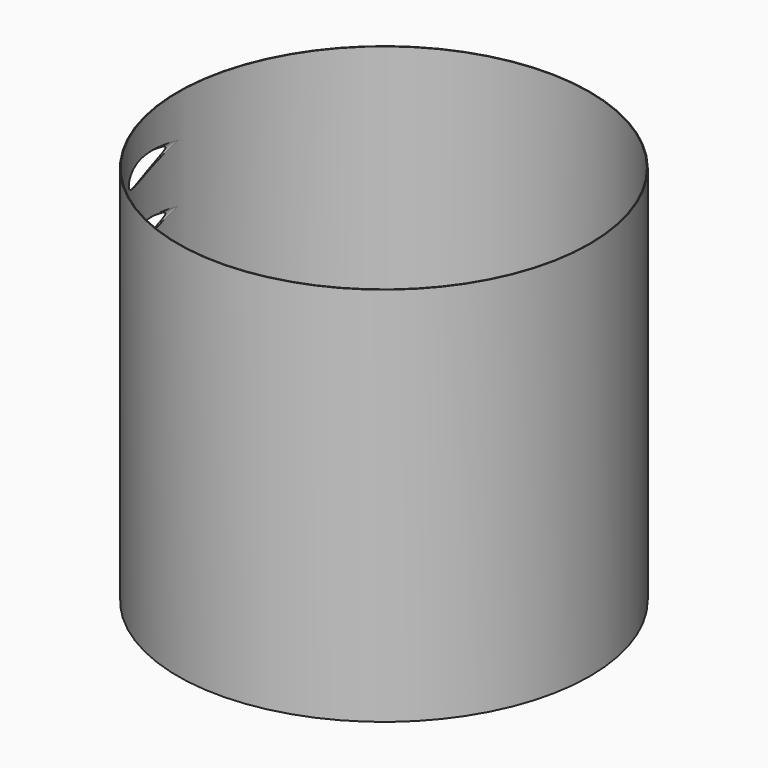
from build123d import *

# Parameters (mm, degrees)
F0_R     = 990.6
F0_R_2   = 987.552
F1_DEPTH = 1828.8
F2_R     = 44.45
F3_DEPTH = 990.601


with BuildPart() as f1:
    # F0 (on Top) → F1 (new body)
    with BuildSketch(Plane.XY):
        Circle(F0_R)
        Circle(F0_R_2, mode=Mode.SUBTRACT)
    extrude(amount=F1_DEPTH)

    # F2 (on Front) → F3 (cut, through all)
    with BuildSketch(Plane.XZ):
        with Locations((-943.102, 1625.6)):
            Circle(F2_R)
        with Locations((-943.102, 1346.2)):
            Circle(F2_R)
    extrude(amount=F3_DEPTH, mode=Mode.SUBTRACT)


solid = f1.part
